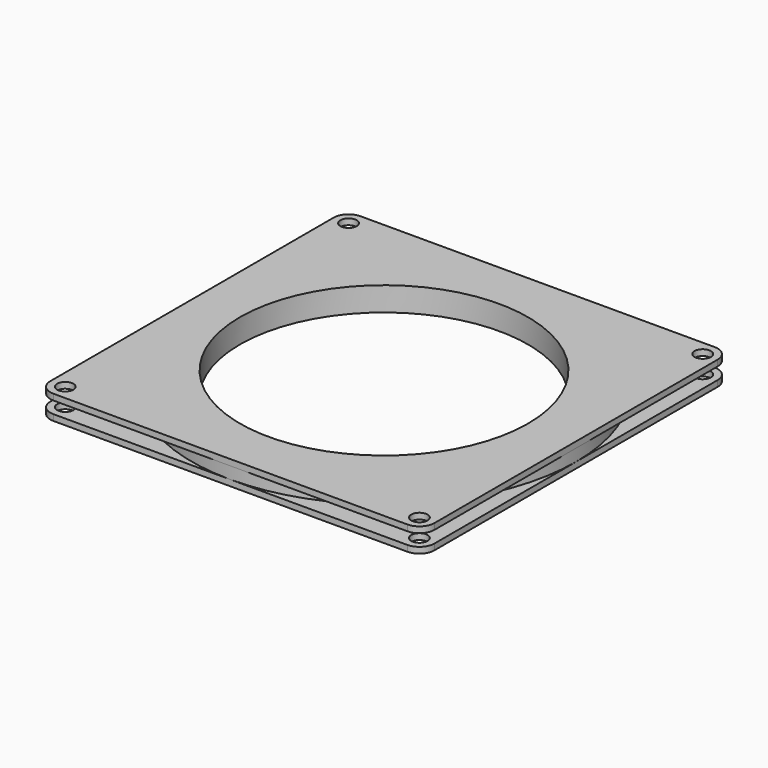
from build123d import *

# Parameters (mm, degrees)
F0_W     = 101.6
F0_H     = 101.6
F0_R     = 2.15265
F0_R_2   = 38.1
F1_DEPTH = 1.5875
F2_R     = 50.8
F2_R_2   = 38.1
F3_DEPTH = 3.175
F4_W     = 101.6
F4_H     = 101.6
F4_R     = 2.15265
F4_R_2   = 38.1
F5_DEPTH = 1.5875
F6_R     = 3.96875


with BuildPart() as f1:
    # F0 (on Top) → F1 (new body)
    with BuildSketch(Plane.XY):
        Rectangle(F0_W, F0_H)
        with Locations((-46.83125, -46.83125)):
            Circle(F0_R, mode=Mode.SUBTRACT)
        Circle(F0_R_2, mode=Mode.SUBTRACT)
        with Locations((46.83125, -46.83125)):
            Circle(F0_R, mode=Mode.SUBTRACT)
        with Locations((-46.83125, 46.83125)):
            Circle(F0_R, mode=Mode.SUBTRACT)
        with Locations((46.83125, 46.83125)):
            Circle(F0_R, mode=Mode.SUBTRACT)
    extrude(amount=F1_DEPTH)

    # F2 (on face) → F3 (join)
    with BuildSketch(Plane.XY.offset(1.5875)):
        Circle(F2_R)
        Circle(F2_R_2, mode=Mode.SUBTRACT)
    extrude(amount=F3_DEPTH)

    # F4 (on face) → F5 (join)
    with BuildSketch(Plane.XY.offset(4.7625)):
        Rectangle(F4_W, F4_H)
        with Locations((-46.83125, -46.83125)):
            Circle(F4_R, mode=Mode.SUBTRACT)
        Circle(F4_R_2, mode=Mode.SUBTRACT)
        with Locations((46.83125, -46.83125)):
            Circle(F4_R, mode=Mode.SUBTRACT)
        with Locations((-46.83125, 46.83125)):
            Circle(F4_R, mode=Mode.SUBTRACT)
        with Locations((46.83125, 46.83125)):
            Circle(F4_R, mode=Mode.SUBTRACT)
    extrude(amount=F5_DEPTH)

    # F6
    f6_edges = [f1.edges().sort_by_distance(p)[0] for p in [
        (-50.8, 50.8, 0.79375),
        (-50.8, -50.8, 0.79375),
        (50.8, -50.8, 0.79375),
        (50.8, 50.8, 0.79375),
        (-50.8, 50.8, 5.55625),
        (-50.8, -50.8, 5.55625),
        (50.8, -50.8, 5.55625),
        (50.8, 50.8, 5.55625),
    ]]
    fillet(f6_edges, radius=F6_R)


solid = f1.part
